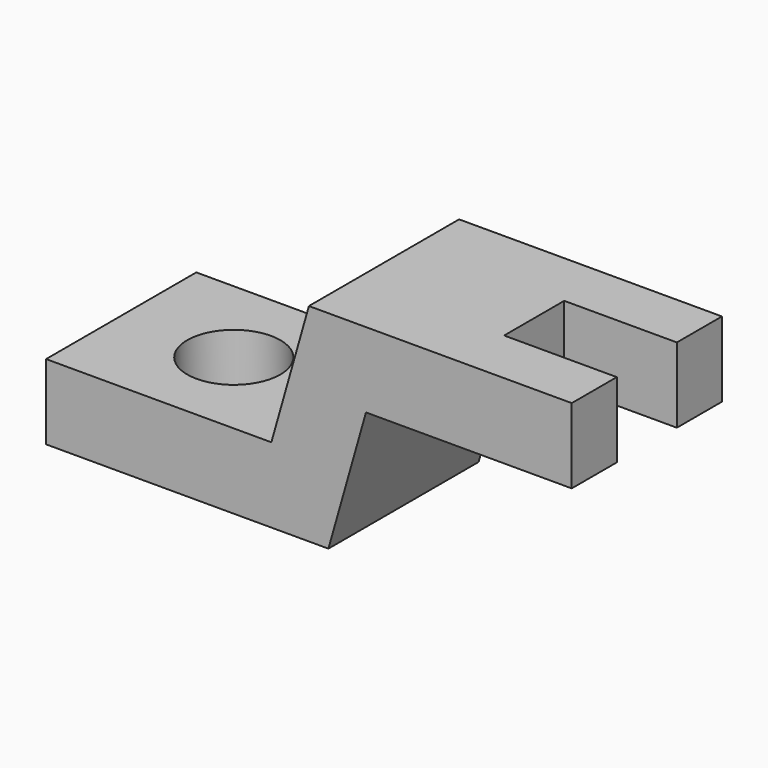
from build123d import *

# Parameters (mm, degrees)
F1_DEPTH = 15.875
F2_W     = 19.05
F2_H     = 12.7
F3_DEPTH = 25.4
F4_R     = 7.874
F5_DEPTH = 25.4


with BuildPart() as f1:
    # F0 (on Front) → F1 (new body, symmetric)
    with BuildSketch(Plane.XZ):
        Polygon((0, 12.7), (0, 0), (47.752, 0), (54.102, 22.352), (88.9, 22.352), (88.9, 35.052), (44.45, 35.052), (38.1, 12.7), align=None)
    extrude(amount=F1_DEPTH, both=True)

    # F2 (on face) → F3 (cut)
    with BuildSketch(Plane.XY.offset(35.052)):
        with Locations((79.375, 0)):
            Rectangle(F2_W, F2_H)
    extrude(amount=-F3_DEPTH, mode=Mode.SUBTRACT)

    # F4 (on face) → F5 (cut)
    with BuildSketch(Plane.XY.offset(12.7)):
        with Locations((19.05, 0)):
            Circle(F4_R)
    extrude(amount=-F5_DEPTH, mode=Mode.SUBTRACT)


solid = f1.part
